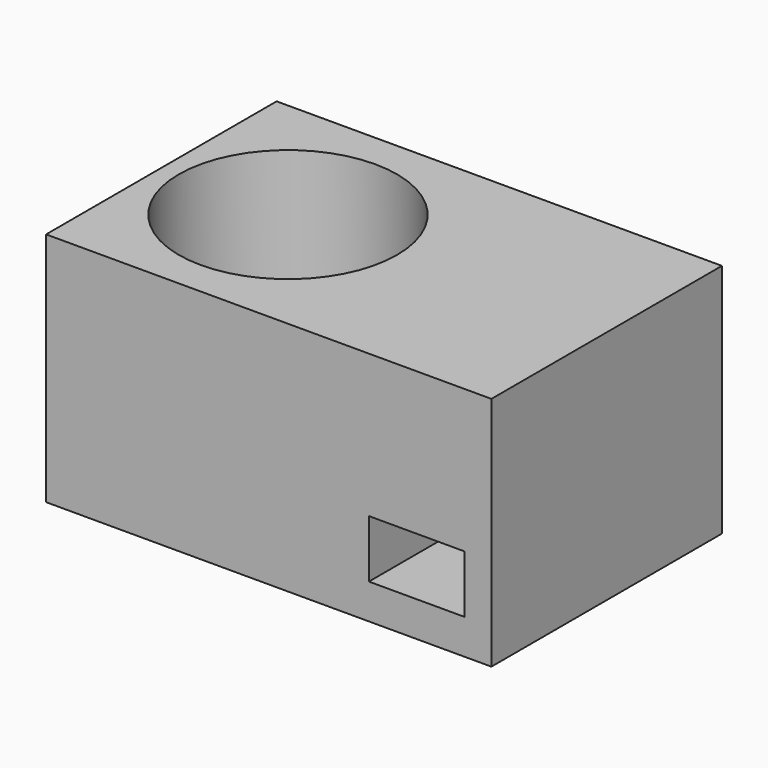
from build123d import *

# Parameters (mm, degrees)
F0_W     = 323.85
F0_H     = 209.55
F1_DEPTH = 171.45
F2_R     = 79.375
F3_DEPTH = 171.451
F4_W     = 69.421232
F4_H     = 41.941766
F5_DEPTH = 76.2


with BuildPart() as f1:
    # F0 (on Top) → F1 (new body)
    with BuildSketch(Plane.XY):
        with Locations((161.925, 104.775)):
            Rectangle(F0_W, F0_H)
    extrude(amount=F1_DEPTH)

    # F2 (on face) → F3 (cut, through all)
    with BuildSketch(Plane.XY.offset(171.45)):
        with Locations((92.075, 104.775)):
            Circle(F2_R)
    extrude(amount=-F3_DEPTH, mode=Mode.SUBTRACT)

    # F4 (on face) → F5 (cut)
    with BuildSketch(Plane.XZ):
        with Locations((269.471973, 46.484394)):
            Rectangle(F4_W, F4_H)
    extrude(amount=-F5_DEPTH, mode=Mode.SUBTRACT)


solid = f1.part
